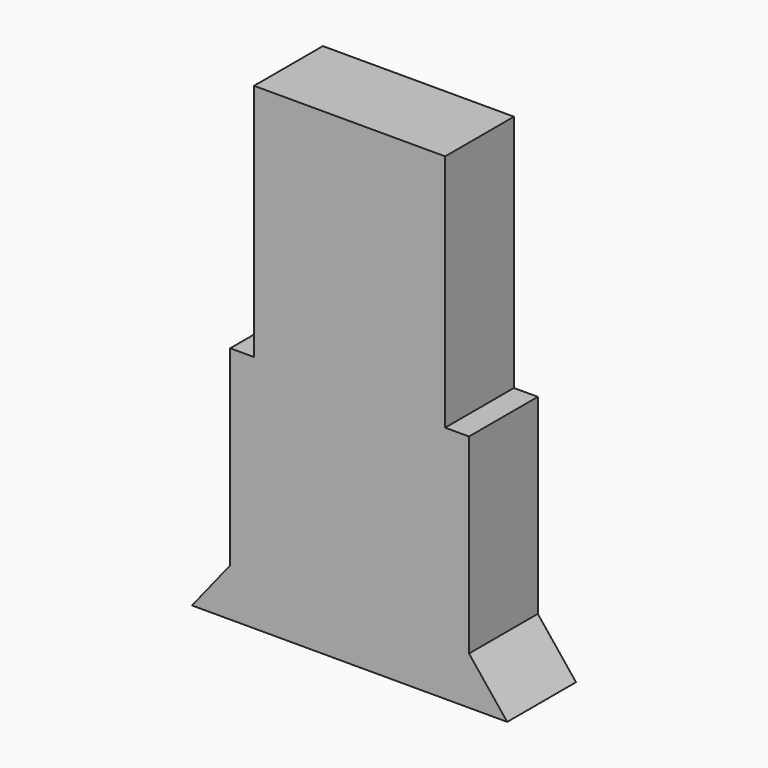
from build123d import *

# Parameters (mm, degrees)
PAD_DEPTH = 0.9


with BuildPart() as part:
    # Sketch → Pad (new body, symmetric)
    with BuildSketch(Plane.XZ):
        Polygon((-3.3, 0), (3.3, 0), (2.5, 1), (2.5, 5), (2, 5), (2, 10), (-2, 10), (-2, 5), (-2.5, 5), (-2.5, 1), align=None)
    extrude(amount=PAD_DEPTH, both=True)


solid = part.part
